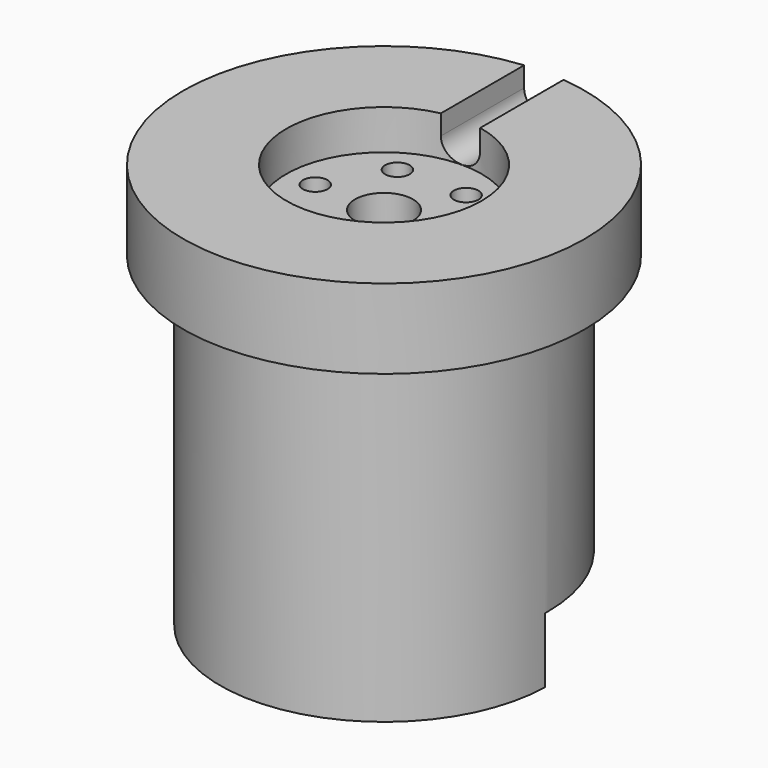
from build123d import *

# Parameters (mm, degrees)
BOX002_W          = 80
BOX002_H          = 100
BOX002_DEPTH      = 10
BOX_W             = 10
BOX_H             = 10
BOX_DEPTH         = 10.8
CYLINDER002_R     = 2.15
CYLINDER002_DEPTH = 10.8
CYLINDER_R        = 22.75
CYLINDER_DEPTH    = 60
CYLINDER001_R     = 27.75
CYLINDER001_DEPTH = 15
SKETCH025_R       = 48.85367
POCKET023_DEPTH   = 4
SKETCH026_R       = 13.5
POCKET024_DEPTH   = 5.5
SKETCH027_R       = 4
POCKET025_DEPTH   = 20
SKETCH028_R       = 1.7
POCKET026_DEPTH   = 56.001
SKETCH029_R       = 3.4
POCKET027_DEPTH   = 40
POCKET028_DEPTH   = 19
SKETCH050_R       = 33.40384
SKETCH050_R_2     = 22.65
POCKET041_DEPTH   = 45


with BuildPart() as cutcube001:
    # Box002 → Box002 (new body)
    with BuildSketch(Plane(origin=(-40, -0.5, -1), x_dir=(1, 0, 0), z_dir=(0, 0, 1))):
        with Locations((40, 50)):
            Rectangle(BOX002_W, BOX002_H)
    extrude(amount=BOX002_DEPTH)


with BuildPart() as cube:
    # Box → Box (new body)
    with BuildSketch(Plane(origin=(-5, 1.536842, 0), x_dir=(1, 0, 0), z_dir=(0, 0, 1))):
        with Locations((5, 5)):
            Rectangle(BOX_W, BOX_H)
    extrude(amount=BOX_DEPTH)


with BuildPart() as motor_shaft_hole:
    # Cylinder002 → Cylinder002 (new body)
    with BuildSketch(Plane.XY):
        Circle(CYLINDER002_R)
    extrude(amount=CYLINDER002_DEPTH)

    # Cut: cut Cube
    add(cube.part, mode=Mode.SUBTRACT)


with BuildPart() as motor_shaft_hole_1:
    # Cut placement: moved
    add(motor_shaft_hole.part.moved(Location((0, 0, 49.2))))


with BuildPart() as cylinder_plug_inner:
    # Cylinder → Cylinder (new body)
    with BuildSketch(Plane.XY):
        Circle(CYLINDER_R)
    extrude(amount=CYLINDER_DEPTH)


with BuildPart() as body002:
    # Cylinder001 → Cylinder001 (new body)
    with BuildSketch(Plane.XY.offset(45)):
        Circle(CYLINDER001_R)
    extrude(amount=CYLINDER001_DEPTH)

    # Fusion: union Cylinder_plug_inner
    add(cylinder_plug_inner.part)

    # Cut001: cut Motor_shaft_hole
    add(motor_shaft_hole_1.part, mode=Mode.SUBTRACT)

    # Cut003: cut CutCube001
    add(cutcube001.part, mode=Mode.SUBTRACT)


with BuildPart() as body002_1:
    # Cut003 placement: moved
    add(body002.part.moved(Location((135, 0, 0))))


with BuildPart() as body002_2:
    # BaseFeature001 placement: moved
    add(body002_1.part.moved(Location((-135, 0, 0))))

    # Sketch025 (on Face5 of BaseFeature001) → Pocket023 (cut)
    with BuildSketch(Plane.XY.offset(60)):
        Circle(SKETCH025_R)
    extrude(amount=-POCKET023_DEPTH, mode=Mode.SUBTRACT)

    # Sketch026 (on Face3 of Pocket023) → Pocket024 (cut)
    with BuildSketch(Plane.XY.offset(56)):
        Circle(SKETCH026_R)
    extrude(amount=-POCKET024_DEPTH, mode=Mode.SUBTRACT)

    # Sketch027 (on Face3 of Pocket024) → Pocket025 (cut)
    with BuildSketch(Plane.XY.offset(56)):
        Circle(SKETCH027_R)
    extrude(amount=-POCKET025_DEPTH, mode=Mode.SUBTRACT)

    # Sketch028 (on Face3 of Pocket025) → Pocket026 (cut, through all)
    with BuildSketch(Plane.XY.offset(56)):
        with Locations((-4.75, 8.25)):
            Circle(SKETCH028_R)
        with Locations((4.75, 8.25)):
            Circle(SKETCH028_R)
        with Locations((4.75, -8.25)):
            Circle(SKETCH028_R)
        with Locations((-4.75, -8.25)):
            Circle(SKETCH028_R)
        with Locations((-9.5, 0)):
            Circle(SKETCH028_R)
        with Locations((9.5, 0)):
            Circle(SKETCH028_R)
    extrude(amount=-POCKET026_DEPTH, mode=Mode.SUBTRACT)

    # Sketch029 (on Face6 of Pocket026) → Pocket027 (cut)
    with BuildSketch(Plane(origin=(0, 0, 0), x_dir=(1, 0, 0), z_dir=(0, 0, -1))):
        with Locations((-4.75, 8.25)):
            Circle(SKETCH029_R)
        with Locations((4.75, 8.25)):
            Circle(SKETCH029_R)
        with Locations((9.5, 0)):
            Circle(SKETCH029_R)
        with Locations((-9.5, 0)):
            Circle(SKETCH029_R)
        with Locations((-4.75, -8.25)):
            Circle(SKETCH029_R)
        with Locations((4.75, -8.25)):
            Circle(SKETCH029_R)
    extrude(amount=-POCKET027_DEPTH, mode=Mode.SUBTRACT)

    # Sketch030 (on DatumPlane) → Pocket028 (cut)
    with BuildSketch(Plane.XZ.offset(-28)):
        with BuildLine():
            ThreePointArc((-2.723427, 53.237899), (0, 50.514472), (2.723427, 53.237899))
            Line((2.723427, 53.237899), (2.723427, 64.839276))
            ThreePointArc((2.723427, 64.839276), (0, 67.562703), (-2.723427, 64.839276))
            Line((-2.723427, 64.839276), (-2.723427, 53.237899))
        make_face()
    extrude(amount=POCKET028_DEPTH, mode=Mode.SUBTRACT)

    # Sketch050 (on Face10 of Pocket028) → Pocket041 (cut)
    with BuildSketch(Plane(origin=(0, 0, 0), x_dir=(1, 0, 0), z_dir=(0, 0, -1))):
        Circle(SKETCH050_R)
        Circle(SKETCH050_R_2, mode=Mode.SUBTRACT)
    extrude(amount=-POCKET041_DEPTH, mode=Mode.SUBTRACT)


with BuildPart() as body002_3:
    # Body002 placement: moved
    add(body002_2.part.moved(Location((0, 0, -67))))


solid = body002_3.part
